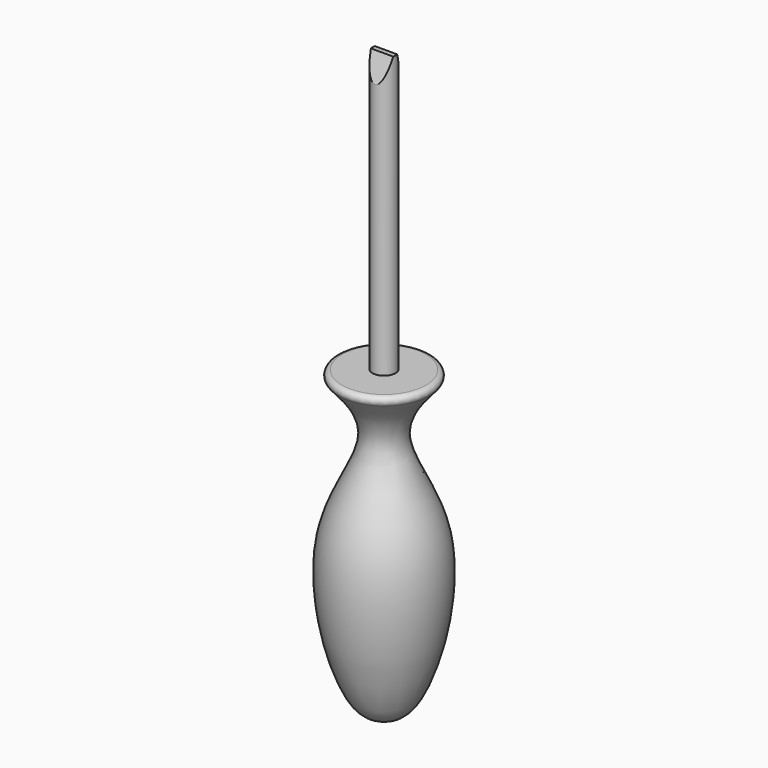
from build123d import *

# Parameters (mm, degrees)
F2_R      = 1.27
F3_W      = 3.0002708081
F3_H      = 73.5732018948
F9_W      = 7.7560471836
F9_H      = 2.3883096874
F10_DEPTH = 25.4
F12_W     = 10.7434005477
F12_H     = 2.3329779506
F13_DEPTH = 25.4


with BuildPart() as f1:
    # F0 (on Front) → F1 (revolve)
    with BuildSketch(Plane.XZ):
        with BuildLine():
            Line((0, -68.3135092258), (0, 12.3814186081))
            Line((0, 12.3814186081), (-13.9111401513, 12.3814186081))
            add(Edge.make_bspline(
                [(-13.9111401513, 12.3814186081), (-9.58096201, 7.6848716654), (0.0908981683, -2.8053076917), (-20.148204209, -24.4778128446), (-9.5205867688, -66.7225426654), (-2.223790727, -67.941895924), (0, -68.3135092258)],
                knots=[0, 0, 0, 0, 0.2264344554, 0.5057626546, 0.8493749285, 1, 1, 1, 1], degree=3))
        make_face()
    revolve(axis=Axis((0, 0, -27.9660453089), (0, 0, -1)))

    # F2
    f2_edges = [f1.edges().sort_by_distance(p)[0] for p in [
        (13.91114, 0, 12.381419),
    ]]
    fillet(f2_edges, radius=F2_R)


with BuildPart() as f4:
    # F3 (on Front) → F4 (revolve)
    with BuildSketch(Plane.XZ):
        with Locations((-1.5001354041, 49.3479967117)):
            Rectangle(F3_W, F3_H)
    revolve(axis=Axis((0, 0, 49.3479967117), (0, 0, 1)))

    # F9 (on face) → F10 (cut)
    with BuildSketch(Plane(origin=(0, 27.6576081545, 75.9886538807), x_dir=(1, 0, 0), z_dir=(0, -0.3420201433, -0.9396926208))):
        with Locations((0.0532375416, 31.2679950148)):
            Rectangle(F9_W, F9_H)
    extrude(amount=F10_DEPTH, mode=Mode.SUBTRACT)

    # F12 (on face) → F13 (cut)
    with BuildSketch(Plane(origin=(0, -27.6576081545, 75.9886538807), x_dir=(1, 0, 0), z_dir=(0, 0.3420201433, -0.9396926208))):
        with Locations((-0.2308294643, -31.2324129045)):
            Rectangle(F12_W, F12_H)
    extrude(amount=F13_DEPTH, mode=Mode.SUBTRACT)


solid = Compound([f1.part, f4.part])
